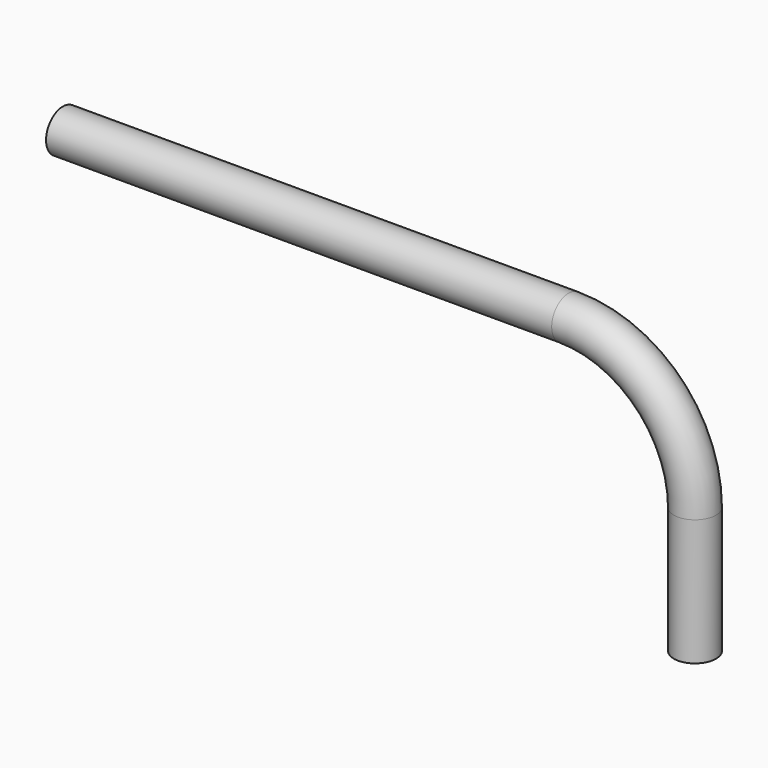
from build123d import *

# Parameters (mm, degrees)
F0_R        = 5
F0_R_2      = 3
F1_DEPTH    = 120
F1_FACE_R   = 5
F1_FACE_R_2 = 3


with BuildPart() as f1:
    # F0 (on Right) → F1 (new body)
    with BuildSketch(Plane.YZ):
        Circle(F0_R)
        Circle(F0_R_2, mode=Mode.SUBTRACT)
    extrude(amount=-F1_DEPTH)

    # F3: sweep along a path in F2
    with BuildLine(Plane.XZ) as f3_path:
        ThreePointArc((0, 0), (21.213203, -8.786797), (30, -30))
        Line((30, -30), (30, -60))
    # F1_face (on face) → F3 (sweep)
    with BuildSketch(Plane.YZ):
        Circle(F1_FACE_R)
        Circle(F1_FACE_R_2, mode=Mode.SUBTRACT)
    sweep(path=f3_path.line)


solid = f1.part
